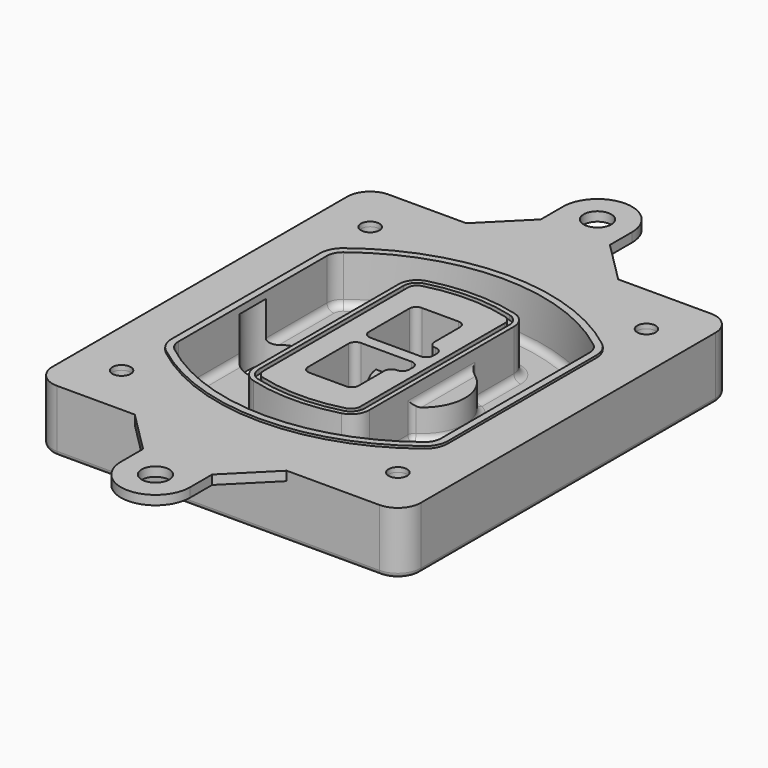
from build123d import *

# Parameters (mm, degrees)
F0_R      = 4
F1_DEPTH  = 25
F2_DEPTH  = 3
F3_DEPTH  = 18
F5_DEPTH  = 21
F6_DEPTH  = 2
F8_DEPTH  = 20
F9_DEPTH  = 16
F10_DEPTH = 25
F7_R      = 6
F7_R_2    = 4
F11_DEPTH = 6
F13_DEPTH = 9
F14_R     = 3
F15_R     = 2
F16_R     = 6
F16_R_2   = 4
F17_DEPTH = 2


with BuildPart() as f1:
    # F0 (on Top) → F1 (new body)
    with BuildSketch(Plane.XY):
        with BuildLine():
            ThreePointArc((-80, -80), (-77.0710678119, -87.0710678119), (-70, -90))
            Line((-70, -90), (70, -90))
            ThreePointArc((70, -90), (77.0710678119, -87.0710678119), (80, -80))
            Line((80, -80), (80, 80))
            ThreePointArc((80, 80), (77.0710678119, 87.0710678119), (70, 90))
            Line((70, 90), (-70, 90))
            ThreePointArc((-70, 90), (-77.0710678119, 87.0710678119), (-80, 80))
            Line((-80, 80), (-80, -80))
        make_face()
        with Locations((-60, -67.5)):
            Circle(F0_R, mode=Mode.SUBTRACT)
        with Locations((60, -67.5)):
            Circle(F0_R, mode=Mode.SUBTRACT)
        with Locations((-60, 67.5)):
            Circle(F0_R, mode=Mode.SUBTRACT)
        with BuildLine():
            ThreePointArc((-64, 40.2934422872), (-62.5820384798, 46.4328484224), (-58.6153846154, 51.3286200352))
            ThreePointArc((-58.6153846154, 51.3286200352), (0, 71.5), (58.6153846154, 51.3286200352))
            ThreePointArc((58.6153846154, 51.3286200352), (62.5820384798, 46.4328484224), (64, 40.2934422872))
            Line((64, 40.2934422872), (64, -40.2934422872))
            ThreePointArc((64, -40.2934422872), (62.5820384798, -46.4328484224), (58.6153846154, -51.3286200352))
            ThreePointArc((58.6153846154, -51.3286200352), (0, -71.5), (-58.6153846154, -51.3286200352))
            ThreePointArc((-58.6153846154, -51.3286200352), (-62.5820384798, -46.4328484224), (-64, -40.2934422872))
            Line((-64, -40.2934422872), (-64, 40.2934422872))
        make_face(mode=Mode.SUBTRACT)
        with Locations((60, 67.5)):
            Circle(F0_R, mode=Mode.SUBTRACT)
        with BuildLine():
            ThreePointArc((58.6153846154, 51.3286200352), (0, 71.5), (-58.6153846154, 51.3286200352))
            ThreePointArc((-58.6153846154, 51.3286200352), (-62.5820384798, 46.4328484224), (-64, 40.2934422872))
            Line((-64, 40.2934422872), (-64, -40.2934422872))
            ThreePointArc((-64, -40.2934422872), (-62.5820384798, -46.4328484224), (-58.6153846154, -51.3286200352))
            ThreePointArc((-58.6153846154, -51.3286200352), (0, -71.5), (58.6153846154, -51.3286200352))
            ThreePointArc((58.6153846154, -51.3286200352), (62.5820384798, -46.4328484224), (64, -40.2934422872))
            Line((64, -40.2934422872), (64, 40.2934422872))
            ThreePointArc((64, 40.2934422872), (62.5820384798, 46.4328484224), (58.6153846154, 51.3286200352))
        make_face()
        with BuildLine():
            Line((-60, -40.2934422872), (-60, 40.2934422872))
            ThreePointArc((-60, 40.2934422872), (-58.9871703427, 44.6787323838), (-56.1538461538, 48.1757121072))
            ThreePointArc((-56.1538461538, 48.1757121072), (0, 67.5), (56.1538461538, 48.1757121072))
            ThreePointArc((56.1538461538, 48.1757121072), (58.9871703427, 44.6787323838), (60, 40.2934422872))
            Line((60, 40.2934422872), (60, -40.2934422872))
            ThreePointArc((60, -40.2934422872), (58.9871703427, -44.6787323838), (56.1538461538, -48.1757121072))
            ThreePointArc((56.1538461538, -48.1757121072), (0, -67.5), (-56.1538461538, -48.1757121072))
            ThreePointArc((-56.1538461538, -48.1757121072), (-58.9871703427, -44.6787323838), (-60, -40.2934422872))
        make_face(mode=Mode.SUBTRACT)
        with BuildLine():
            ThreePointArc((-56.1538461538, 48.1757121072), (-58.9871703427, 44.6787323838), (-60, 40.2934422872))
            Line((-60, 40.2934422872), (-60, -40.2934422872))
            ThreePointArc((-60, -40.2934422872), (-58.9871703427, -44.6787323838), (-56.1538461538, -48.1757121072))
            ThreePointArc((-56.1538461538, -48.1757121072), (0, -67.5), (56.1538461538, -48.1757121072))
            ThreePointArc((56.1538461538, -48.1757121072), (58.9871703427, -44.6787323838), (60, -40.2934422872))
            Line((60, -40.2934422872), (60, 40.2934422872))
            ThreePointArc((60, 40.2934422872), (58.9871703427, 44.6787323838), (56.1538461538, 48.1757121072))
            ThreePointArc((56.1538461538, 48.1757121072), (0, 67.5), (-56.1538461538, 48.1757121072))
        make_face()
        with BuildLine():
            ThreePointArc((54.3076923077, 45.8110311612), (56.2910192399, 43.3631453548), (57, 40.2934422872))
            Line((57, 40.2934422872), (57, -40.2934422872))
            ThreePointArc((57, -40.2934422872), (56.2910192399, -43.3631453548), (54.3076923077, -45.8110311612))
            ThreePointArc((54.3076923077, -45.8110311612), (0, -64.5), (-54.3076923077, -45.8110311612))
            ThreePointArc((-54.3076923077, -45.8110311612), (-56.2910192399, -43.3631453548), (-57, -40.2934422872))
            Line((-57, -40.2934422872), (-57, 40.2934422872))
            ThreePointArc((-57, 40.2934422872), (-56.2910192399, 43.3631453548), (-54.3076923077, 45.8110311612))
            ThreePointArc((-54.3076923077, 45.8110311612), (0, 64.5), (54.3076923077, 45.8110311612))
        make_face(mode=Mode.SUBTRACT)
        with BuildLine():
            Line((57, -40.2934422872), (57, 40.2934422872))
            ThreePointArc((57, 40.2934422872), (56.2910192399, 43.3631453548), (54.3076923077, 45.8110311612))
            ThreePointArc((54.3076923077, 45.8110311612), (0, 64.5), (-54.3076923077, 45.8110311612))
            ThreePointArc((-54.3076923077, 45.8110311612), (-56.2910192399, 43.3631453548), (-57, 40.2934422872))
            Line((-57, 40.2934422872), (-57, -40.2934422872))
            ThreePointArc((-57, -40.2934422872), (-56.2910192399, -43.3631453548), (-54.3076923077, -45.8110311612))
            ThreePointArc((-54.3076923077, -45.8110311612), (0, -64.5), (54.3076923077, -45.8110311612))
            ThreePointArc((54.3076923077, -45.8110311612), (56.2910192399, -43.3631453548), (57, -40.2934422872))
        make_face()
    extrude(amount=-F1_DEPTH)

    # F0 (on Top) → F2 (join)
    with BuildSketch(Plane.XY):
        with BuildLine():
            ThreePointArc((-56.1538461538, 48.1757121072), (-58.9871703427, 44.6787323838), (-60, 40.2934422872))
            Line((-60, 40.2934422872), (-60, -40.2934422872))
            ThreePointArc((-60, -40.2934422872), (-58.9871703427, -44.6787323838), (-56.1538461538, -48.1757121072))
            ThreePointArc((-56.1538461538, -48.1757121072), (0, -67.5), (56.1538461538, -48.1757121072))
            ThreePointArc((56.1538461538, -48.1757121072), (58.9871703427, -44.6787323838), (60, -40.2934422872))
            Line((60, -40.2934422872), (60, 40.2934422872))
            ThreePointArc((60, 40.2934422872), (58.9871703427, 44.6787323838), (56.1538461538, 48.1757121072))
            ThreePointArc((56.1538461538, 48.1757121072), (0, 67.5), (-56.1538461538, 48.1757121072))
        make_face()
        with BuildLine():
            ThreePointArc((54.3076923077, 45.8110311612), (56.2910192399, 43.3631453548), (57, 40.2934422872))
            Line((57, 40.2934422872), (57, -40.2934422872))
            ThreePointArc((57, -40.2934422872), (56.2910192399, -43.3631453548), (54.3076923077, -45.8110311612))
            ThreePointArc((54.3076923077, -45.8110311612), (0, -64.5), (-54.3076923077, -45.8110311612))
            ThreePointArc((-54.3076923077, -45.8110311612), (-56.2910192399, -43.3631453548), (-57, -40.2934422872))
            Line((-57, -40.2934422872), (-57, 40.2934422872))
            ThreePointArc((-57, 40.2934422872), (-56.2910192399, 43.3631453548), (-54.3076923077, 45.8110311612))
            ThreePointArc((-54.3076923077, 45.8110311612), (0, 64.5), (54.3076923077, 45.8110311612))
        make_face(mode=Mode.SUBTRACT)
    extrude(amount=F2_DEPTH)

    # F0 (on Top) → F3 (cut)
    with BuildSketch(Plane.XY):
        with BuildLine():
            Line((57, -40.2934422872), (57, 40.2934422872))
            ThreePointArc((57, 40.2934422872), (56.2910192399, 43.3631453548), (54.3076923077, 45.8110311612))
            ThreePointArc((54.3076923077, 45.8110311612), (0, 64.5), (-54.3076923077, 45.8110311612))
            ThreePointArc((-54.3076923077, 45.8110311612), (-56.2910192399, 43.3631453548), (-57, 40.2934422872))
            Line((-57, 40.2934422872), (-57, -40.2934422872))
            ThreePointArc((-57, -40.2934422872), (-56.2910192399, -43.3631453548), (-54.3076923077, -45.8110311612))
            ThreePointArc((-54.3076923077, -45.8110311612), (0, -64.5), (54.3076923077, -45.8110311612))
            ThreePointArc((54.3076923077, -45.8110311612), (56.2910192399, -43.3631453548), (57, -40.2934422872))
        make_face()
    extrude(amount=-F3_DEPTH, mode=Mode.SUBTRACT)

    # F4 (on face) → F5 (join, through all)
    with BuildSketch(Plane.XY.offset(3)):
        with BuildLine():
            ThreePointArc((-25, -39.2465276821), (-23.3511545998, -44.1109737193), (-19.0842911877, -46.9702398883))
            ThreePointArc((-19.0842911877, -46.9702398883), (0, -49.5), (19.0842911877, -46.9702398883))
            ThreePointArc((19.0842911877, -46.9702398883), (23.3511545998, -44.1109737193), (25, -39.2465276821))
            Line((25, -39.2465276821), (25, 39.2465276821))
            ThreePointArc((25, 39.2465276821), (23.3511545998, 44.1109737193), (19.0842911877, 46.9702398883))
            ThreePointArc((19.0842911877, 46.9702398883), (0, 49.5), (-19.0842911877, 46.9702398883))
            ThreePointArc((-19.0842911877, 46.9702398883), (-23.3511545998, 44.1109737193), (-25, 39.2465276821))
            Line((-25, 39.2465276821), (-25, -39.2465276821))
        make_face()
        with BuildLine():
            ThreePointArc((18.5632183908, 45.0393118368), (21.7633659499, 42.89486221), (23, 39.2465276821))
            Line((23, 39.2465276821), (23, -39.2465276821))
            ThreePointArc((23, -39.2465276821), (21.7633659499, -42.89486221), (18.5632183908, -45.0393118368))
            ThreePointArc((18.5632183908, -45.0393118368), (0, -47.5), (-18.5632183908, -45.0393118368))
            ThreePointArc((-18.5632183908, -45.0393118368), (-21.7633659499, -42.89486221), (-23, -39.2465276821))
            Line((-23, -39.2465276821), (-23, 39.2465276821))
            ThreePointArc((-23, 39.2465276821), (-21.7633659499, 42.89486221), (-18.5632183908, 45.0393118368))
            ThreePointArc((-18.5632183908, 45.0393118368), (0, 47.5), (18.5632183908, 45.0393118368))
        make_face(mode=Mode.SUBTRACT)
        with BuildLine():
            Line((23, -39.2465276821), (23, 39.2465276821))
            ThreePointArc((23, 39.2465276821), (21.7633659499, 42.89486221), (18.5632183908, 45.0393118368))
            ThreePointArc((18.5632183908, 45.0393118368), (0, 47.5), (-18.5632183908, 45.0393118368))
            ThreePointArc((-18.5632183908, 45.0393118368), (-21.7633659499, 42.89486221), (-23, 39.2465276821))
            Line((-23, 39.2465276821), (-23, -39.2465276821))
            ThreePointArc((-23, -39.2465276821), (-21.7633659499, -42.89486221), (-18.5632183908, -45.0393118368))
            ThreePointArc((-18.5632183908, -45.0393118368), (0, -47.5), (18.5632183908, -45.0393118368))
            ThreePointArc((18.5632183908, -45.0393118368), (21.7633659499, -42.89486221), (23, -39.2465276821))
        make_face()
        with BuildLine():
            ThreePointArc((18.0421455939, 43.1083837852), (20.1755772999, 41.6787507007), (21, 39.2465276821))
            Line((21, 39.2465276821), (21, -39.2465276821))
            ThreePointArc((21, -39.2465276821), (20.1755772999, -41.6787507007), (18.0421455939, -43.1083837852))
            ThreePointArc((18.0421455939, -43.1083837852), (0, -45.5), (-18.0421455939, -43.1083837852))
            ThreePointArc((-18.0421455939, -43.1083837852), (-20.1755772999, -41.6787507007), (-21, -39.2465276821))
            Line((-21, -39.2465276821), (-21, 39.2465276821))
            ThreePointArc((-21, 39.2465276821), (-20.1755772999, 41.6787507007), (-18.0421455939, 43.1083837852))
            ThreePointArc((-18.0421455939, 43.1083837852), (0, 45.5), (18.0421455939, 43.1083837852))
        make_face(mode=Mode.SUBTRACT)
        with BuildLine():
            Line((21, -39.2465276821), (21, 39.2465276821))
            ThreePointArc((21, 39.2465276821), (20.1755772999, 41.6787507007), (18.0421455939, 43.1083837852))
            ThreePointArc((18.0421455939, 43.1083837852), (0, 45.5), (-18.0421455939, 43.1083837852))
            ThreePointArc((-18.0421455939, 43.1083837852), (-20.1755772999, 41.6787507007), (-21, 39.2465276821))
            Line((-21, 39.2465276821), (-21, -39.2465276821))
            ThreePointArc((-21, -39.2465276821), (-20.1755772999, -41.6787507007), (-18.0421455939, -43.1083837852))
            ThreePointArc((-18.0421455939, -43.1083837852), (0, -45.5), (18.0421455939, -43.1083837852))
            ThreePointArc((18.0421455939, -43.1083837852), (20.1755772999, -41.6787507007), (21, -39.2465276821))
        make_face()
        with BuildLine():
            Line((-8, -2.5), (14, -2.5))
            ThreePointArc((14, -2.5), (16.1213203436, -3.3786796564), (17, -5.5))
            Line((17, -5.5), (17, -7.5))
            ThreePointArc((17, -7.5), (16.1213203436, -9.6213203436), (14, -10.5))
            ThreePointArc((14, -10.5), (11.8786796564, -11.3786796564), (11, -13.5))
            Line((11, -13.5), (11, -27.5))
            ThreePointArc((11, -27.5), (10.1213203436, -29.6213203436), (8, -30.5))
            Line((8, -30.5), (-8, -30.5))
            ThreePointArc((-8, -30.5), (-10.1213203436, -29.6213203436), (-11, -27.5))
            Line((-11, -27.5), (-11, -5.5))
            ThreePointArc((-11, -5.5), (-10.1213203436, -3.3786796564), (-8, -2.5))
        make_face(mode=Mode.SUBTRACT)
        with BuildLine():
            ThreePointArc((-8, 2.5), (-10.1213203436, 3.3786796564), (-11, 5.5))
            Line((-11, 5.5), (-11, 27.5))
            ThreePointArc((-11, 27.5), (-10.1213203436, 29.6213203436), (-8, 30.5))
            Line((-8, 30.5), (8, 30.5))
            ThreePointArc((8, 30.5), (10.1213203436, 29.6213203436), (11, 27.5))
            Line((11, 27.5), (11, 13.5))
            ThreePointArc((11, 13.5), (11.8786796564, 11.3786796564), (14, 10.5))
            ThreePointArc((14, 10.5), (16.1213203436, 9.6213203436), (17, 7.5))
            Line((17, 7.5), (17, 5.5))
            ThreePointArc((17, 5.5), (16.1213203436, 3.3786796564), (14, 2.5))
            Line((14, 2.5), (-8, 2.5))
        make_face(mode=Mode.SUBTRACT)
    extrude(amount=-F5_DEPTH)

    # F4 (on face) → F6 (cut)
    with BuildSketch(Plane.XY.offset(3)):
        with BuildLine():
            Line((23, -39.2465276821), (23, 39.2465276821))
            ThreePointArc((23, 39.2465276821), (21.7633659499, 42.89486221), (18.5632183908, 45.0393118368))
            ThreePointArc((18.5632183908, 45.0393118368), (0, 47.5), (-18.5632183908, 45.0393118368))
            ThreePointArc((-18.5632183908, 45.0393118368), (-21.7633659499, 42.89486221), (-23, 39.2465276821))
            Line((-23, 39.2465276821), (-23, -39.2465276821))
            ThreePointArc((-23, -39.2465276821), (-21.7633659499, -42.89486221), (-18.5632183908, -45.0393118368))
            ThreePointArc((-18.5632183908, -45.0393118368), (0, -47.5), (18.5632183908, -45.0393118368))
            ThreePointArc((18.5632183908, -45.0393118368), (21.7633659499, -42.89486221), (23, -39.2465276821))
        make_face()
        with BuildLine():
            ThreePointArc((18.0421455939, 43.1083837852), (20.1755772999, 41.6787507007), (21, 39.2465276821))
            Line((21, 39.2465276821), (21, -39.2465276821))
            ThreePointArc((21, -39.2465276821), (20.1755772999, -41.6787507007), (18.0421455939, -43.1083837852))
            ThreePointArc((18.0421455939, -43.1083837852), (0, -45.5), (-18.0421455939, -43.1083837852))
            ThreePointArc((-18.0421455939, -43.1083837852), (-20.1755772999, -41.6787507007), (-21, -39.2465276821))
            Line((-21, -39.2465276821), (-21, 39.2465276821))
            ThreePointArc((-21, 39.2465276821), (-20.1755772999, 41.6787507007), (-18.0421455939, 43.1083837852))
            ThreePointArc((-18.0421455939, 43.1083837852), (0, 45.5), (18.0421455939, 43.1083837852))
        make_face(mode=Mode.SUBTRACT)
    extrude(amount=-F6_DEPTH, mode=Mode.SUBTRACT)

    # F7 (on face) → F8 (join)
    with BuildSketch(Plane(origin=(0, 0, -25), x_dir=(1, 0, 0), z_dir=(0, 0, -1))):
        with BuildLine():
            ThreePointArc((3.28842436, 0), (16.7567035675, 13.4682792075), (30.224982775, 0))
            Line((30.224982775, 0), (35.224982775, 0))
            ThreePointArc((35.224982775, 0), (16.7567035675, 18.4682792075), (-1.71157564, 0))
            Line((-1.71157564, 0), (3.28842436, 0))
        make_face()
        with BuildLine():
            Line((3.28842436, 0), (30.224982775, 0))
            ThreePointArc((30.224982775, 0), (16.7567035675, 13.4682792075), (3.28842436, 0))
        make_face()
        with BuildLine():
            ThreePointArc((3.28842436, 0), (16.7567035675, -13.4682792075), (30.224982775, 0))
            Line((30.224982775, 0), (3.28842436, 0))
        make_face()
        with BuildLine():
            Line((35.224982775, 0), (30.224982775, 0))
            ThreePointArc((30.224982775, 0), (16.7567035675, -13.4682792075), (3.28842436, 0))
            Line((3.28842436, 0), (-1.71157564, 0))
            ThreePointArc((-1.71157564, 0), (16.7567035675, -18.4682792075), (35.224982775, 0))
        make_face()
    extrude(amount=-F8_DEPTH)

    # F7 (on face) → F9 (cut)
    with BuildSketch(Plane(origin=(0, 0, -25), x_dir=(1, 0, 0), z_dir=(0, 0, -1))):
        with BuildLine():
            Line((3.28842436, 0), (30.224982775, 0))
            ThreePointArc((30.224982775, 0), (16.7567035675, 13.4682792075), (3.28842436, 0))
        make_face()
        with BuildLine():
            ThreePointArc((3.28842436, 0), (16.7567035675, -13.4682792075), (30.224982775, 0))
            Line((30.224982775, 0), (3.28842436, 0))
        make_face()
    extrude(amount=-F9_DEPTH, mode=Mode.SUBTRACT)

    # F7 (on face) → F10 (cut)
    with BuildSketch(Plane(origin=(0, 0, -25), x_dir=(1, 0, 0), z_dir=(0, 0, -1))):
        with BuildLine():
            Line((-59.0318229325, 0), (-32.0952645175, 0))
            ThreePointArc((-32.0952645175, 0), (-45.563543725, 13.4682792075), (-59.0318229325, 0))
        make_face()
        with BuildLine():
            ThreePointArc((-59.0318229325, 0), (-45.563543725, -13.4682792075), (-32.0952645175, 0))
            Line((-32.0952645175, 0), (-59.0318229325, 0))
        make_face()
    extrude(amount=-F10_DEPTH, mode=Mode.SUBTRACT)

    # F7 (on face) → F11 (cut)
    with BuildSketch(Plane(origin=(0, 0, -25), x_dir=(1, 0, 0), z_dir=(0, 0, -1))):
        with Locations((60, -67.5)):
            Circle(F7_R)
        with Locations((60, -67.5)):
            Circle(F7_R_2, mode=Mode.SUBTRACT)
        with Locations((60, -67.5)):
            Circle(F7_R)
        with Locations((60, -67.5)):
            Circle(F7_R_2, mode=Mode.SUBTRACT)
        with Locations((-60, -67.5)):
            Circle(F7_R)
        with Locations((-60, -67.5)):
            Circle(F7_R_2, mode=Mode.SUBTRACT)
        with Locations((-60, -67.5)):
            Circle(F7_R)
        with Locations((-60, -67.5)):
            Circle(F7_R_2, mode=Mode.SUBTRACT)
        with Locations((-60, 67.5)):
            Circle(F7_R)
        with Locations((-60, 67.5)):
            Circle(F7_R_2, mode=Mode.SUBTRACT)
        with Locations((-60, 67.5)):
            Circle(F7_R)
        with Locations((-60, 67.5)):
            Circle(F7_R_2, mode=Mode.SUBTRACT)
        with Locations((60, 67.5)):
            Circle(F7_R)
        with Locations((60, 67.5)):
            Circle(F7_R_2, mode=Mode.SUBTRACT)
        with Locations((60, 67.5)):
            Circle(F7_R)
        with Locations((60, 67.5)):
            Circle(F7_R_2, mode=Mode.SUBTRACT)
    extrude(amount=-F11_DEPTH, mode=Mode.SUBTRACT)

    # F12 (on face) → F13 (cut, through all)
    with BuildSketch(Plane(origin=(0, 0, -9), x_dir=(1, 0, 0), z_dir=(0, 0, -1))):
        with BuildLine():
            Line((11, 13.5), (11, 17.5481537753))
            ThreePointArc((11, 17.5481537753), (2.5696536419, 11.8239143813), (-1.5415842455, 2.5))
            Line((-1.5415842455, 2.5), (3.5224848595, 2.5))
            ThreePointArc((3.5224848595, 2.5), (6.1857188154, 8.3455872281), (11.2536447004, 12.2927168648))
            ThreePointArc((11.2536447004, 12.2927168648), (11.0640958889, 12.8831798879), (11, 13.5))
        make_face()
        with BuildLine():
            ThreePointArc((11.2536447004, -12.2927168648), (6.1857188154, -8.3455872281), (3.5224848595, -2.5))
            Line((3.5224848595, -2.5), (-1.5415842455, -2.5))
            ThreePointArc((-1.5415842455, -2.5), (2.5696536419, -11.8239143813), (11, -17.5481537753))
            Line((11, -17.5481537753), (11, -13.5))
            ThreePointArc((11, -13.5), (11.0640958889, -12.8831798879), (11.2536447004, -12.2927168648))
        make_face()
        with BuildLine():
            ThreePointArc((11.2536447004, 12.2927168648), (6.1857188154, 8.3455872281), (3.5224848595, 2.5))
            Line((3.5224848595, 2.5), (14, 2.5))
            ThreePointArc((14, 2.5), (16.1213203436, 3.3786796564), (17, 5.5))
            Line((17, 5.5), (17, 7.5))
            ThreePointArc((17, 7.5), (16.1213203436, 9.6213203436), (14, 10.5))
            ThreePointArc((14, 10.5), (12.3601599782, 10.9878446101), (11.2536447004, 12.2927168648))
        make_face()
        with BuildLine():
            Line((14, -2.5), (3.5224848595, -2.5))
            ThreePointArc((3.5224848595, -2.5), (6.1857188154, -8.3455872281), (11.2536447004, -12.2927168648))
            ThreePointArc((11.2536447004, -12.2927168648), (12.3601599782, -10.9878446101), (14, -10.5))
            ThreePointArc((14, -10.5), (16.1213203436, -9.6213203436), (17, -7.5))
            Line((17, -7.5), (17, -5.5))
            ThreePointArc((17, -5.5), (16.1213203436, -3.3786796564), (14, -2.5))
        make_face()
    extrude(amount=F13_DEPTH, mode=Mode.SUBTRACT)

    # F14
    f14_edges = [f1.edges().sort_by_distance(p)[0] for p in [
        (-57, -23.703476, -18),
        (-57, 23.703476, -18),
        (25, 0, -5),
        (25, 16.526506, -11.5),
        (25, -16.526506, -11.5),
        (25, -27.886517, -18),
        (35.224983, 0, -18),
    ]]
    fillet(f14_edges, radius=F14_R)

    # F15
    f15_edges = [f1.edges().sort_by_distance(p)[0] for p in [
        (0, -90, -25),
    ]]
    fillet(f15_edges, radius=F15_R)

    # F16 (on face) → F17 (join, symmetric)
    with BuildSketch(Plane.XY):
        with BuildLine():
            Line((-18.2643938314, 108), (-36.2643938314, 90))
            Line((-36.2643938314, 90), (29.7356061686, 90))
            Line((29.7356061686, 90), (11.7356061686, 108))
            Line((11.7356061686, 108), (11.7356061686, 120))
            ThreePointArc((11.7356061686, 120), (-3.2643938314, 135), (-18.2643938314, 120))
            Line((-18.2643938314, 120), (-18.2643938314, 108))
        make_face()
        with Locations((-3.2643938314, 120)):
            Circle(F16_R, mode=Mode.SUBTRACT)
        with BuildLine():
            Line((29.7356061686, -90), (-36.2643938314, -90))
            Line((-36.2643938314, -90), (-18.2643938314, -108))
            Line((-18.2643938314, -108), (-18.2643938314, -120))
            ThreePointArc((-18.2643938314, -120), (-3.2643938314, -135), (11.7356061686, -120))
            Line((11.7356061686, -120), (11.7356061686, -108))
            Line((11.7356061686, -108), (29.7356061686, -90))
        make_face()
        with Locations((-3.2643938314, -120)):
            Circle(F16_R, mode=Mode.SUBTRACT)
        with BuildLine():
            Line((29.7356061686, 90), (-36.2643938314, 90))
            Line((-36.2643938314, 90), (-70, 90))
            ThreePointArc((-70, 90), (-77.0710678119, 87.0710678119), (-80, 80))
            Line((-80, 80), (-80, -80))
            ThreePointArc((-80, -80), (-77.0710678119, -87.0710678119), (-70, -90))
            Line((-70, -90), (-36.2643938314, -90))
            Line((-36.2643938314, -90), (29.7356061686, -90))
            Line((29.7356061686, -90), (70, -90))
            ThreePointArc((70, -90), (77.0710678119, -87.0710678119), (80, -80))
            Line((80, -80), (80, 80))
            ThreePointArc((80, 80), (77.0710678119, 87.0710678119), (70, 90))
            Line((70, 90), (29.7356061686, 90))
        make_face()
        with Locations((-60, -67.5)):
            Circle(F16_R_2, mode=Mode.SUBTRACT)
        with Locations((60, -67.5)):
            Circle(F16_R_2, mode=Mode.SUBTRACT)
        with Locations((-60, 67.5)):
            Circle(F16_R_2, mode=Mode.SUBTRACT)
        with BuildLine():
            ThreePointArc((-60, 40.2934422872), (-58.9871703427, 44.6787323838), (-56.1538461538, 48.1757121072))
            ThreePointArc((-56.1538461538, 48.1757121072), (0, 67.5), (56.1538461538, 48.1757121072))
            ThreePointArc((56.1538461538, 48.1757121072), (58.9871703427, 44.6787323838), (60, 40.2934422872))
            Line((60, 40.2934422872), (60, -40.2934422872))
            ThreePointArc((60, -40.2934422872), (58.9871703427, -44.6787323838), (56.1538461538, -48.1757121072))
            ThreePointArc((56.1538461538, -48.1757121072), (0, -67.5), (-56.1538461538, -48.1757121072))
            ThreePointArc((-56.1538461538, -48.1757121072), (-58.9871703427, -44.6787323838), (-60, -40.2934422872))
            Line((-60, -40.2934422872), (-60, 40.2934422872))
        make_face(mode=Mode.SUBTRACT)
        with Locations((60, 67.5)):
            Circle(F16_R_2, mode=Mode.SUBTRACT)
    extrude(amount=F17_DEPTH, both=True)


solid = f1.part
